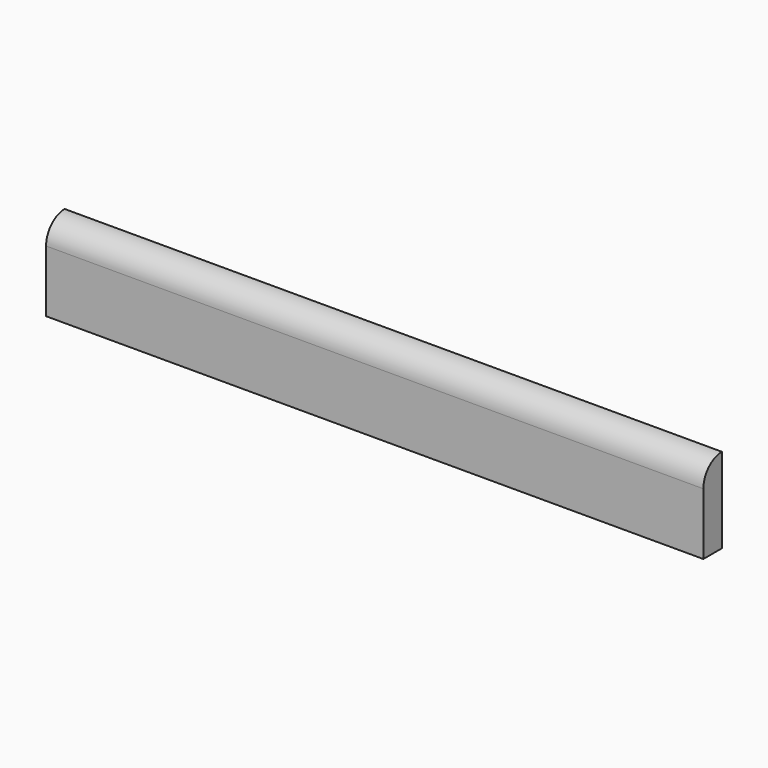
from build123d import *

# Parameters (mm, degrees)
F1_DEPTH = 107.95


with BuildPart() as f1:
    # F0 (on Right) → F1 (new body)
    with BuildSketch(Plane.YZ):
        with BuildLine():
            Line((0, 10.13984), (0, 0))
            Line((0, 0), (3.81, 0))
            Line((3.81, 0), (3.809989, 13.95992))
            ThreePointArc((3.809989, 13.95992), (1.119477, 12.847559), (0, 10.16))
            Line((0, 10.16), (0, 10.13984))
        make_face()
    extrude(amount=F1_DEPTH)


solid = f1.part
